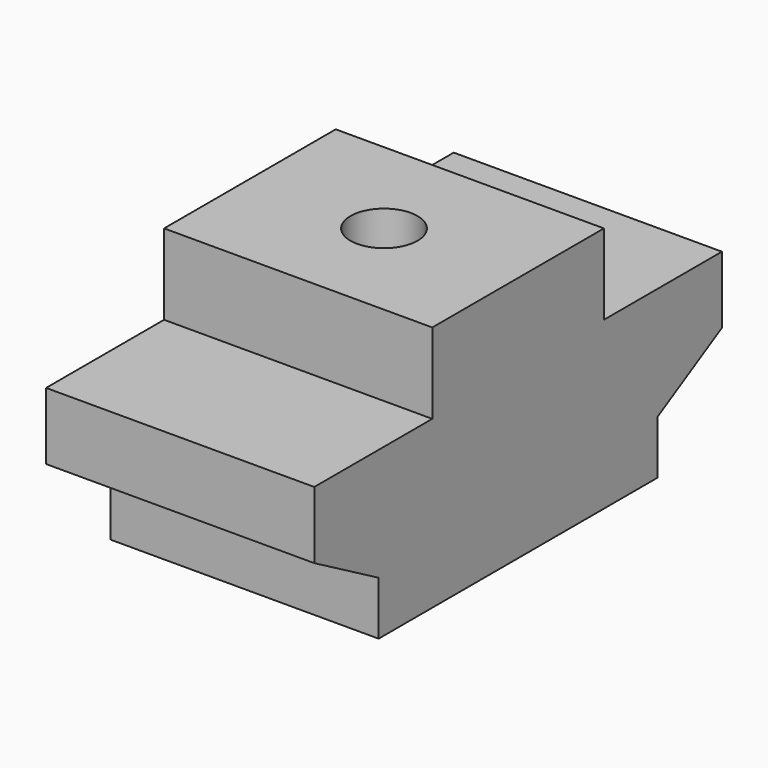
from build123d import *

# Parameters (mm, degrees)
PAD005_DEPTH    = 5
POCKET002_DEPTH = 0.001
SKETCH010_R     = 1.25
POCKET003_DEPTH = 9.2


with BuildPart() as part:
    # Sketch008 → Pad005 (new body, symmetric)
    with BuildSketch(Plane.YZ):
        Polygon((-6.5, 0), (-6.5, 2), (-9.5, 3.7), (-9.5, 6.2), (-4, 6.2), (-4, 9.2), (0, 9.2), (0, 0), align=None)
    pad005 = extrude(amount=PAD005_DEPTH, both=True)

    # Mirrored: Pad005 across Sketch008 V_Axis
    add(pad005.mirror(Plane(origin=(0, 0, 0), x_dir=(1, 0, 0), z_dir=(0, 1, 0))))

    # Sketch009 (on Face2 of Mirrored) → Pocket002 (cut)
    with BuildSketch(Plane.YX):
        Polygon((-2.136196, 3.7), (-4.272392, 0), (-2.136196, -3.7), (2.136196, -3.7), (4.272392, 0), (2.136196, 3.7), align=None)
    extrude(amount=-POCKET002_DEPTH, mode=Mode.SUBTRACT)

    # Sketch010 (on Face20 of Pocket002) → Pocket003 (cut, through all)
    with BuildSketch(Plane.YX.offset(-0.001)):
        Circle(SKETCH010_R)
    extrude(amount=-POCKET003_DEPTH, mode=Mode.SUBTRACT)


solid = part.part
